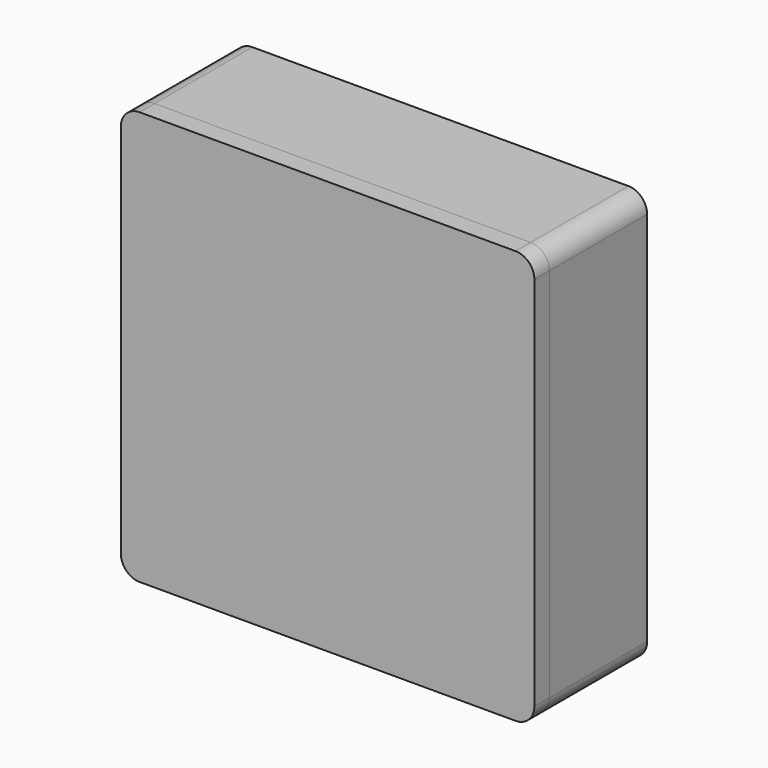
from build123d import *

# Parameters (mm, degrees)
F0_W     = 220
F0_H     = 220
F1_DEPTH = 65
F2_R     = 10
F3_T     = -2.5
F5_DEPTH = 10


with BuildPart() as f1:
    # F0 (on Front) → F1 (new body)
    with BuildSketch(Plane.XZ):
        Rectangle(F0_W, F0_H)
    extrude(amount=F1_DEPTH)

    # F2
    f2_edges = [f1.edges().sort_by_distance(p)[0] for p in [
        (110, -32.5, 110),
        (-110, -32.5, 110),
        (110, -32.5, -110),
        (-110, -32.5, -110),
    ]]
    fillet(f2_edges, radius=F2_R)

    # F3
    f3_openings = [f1.faces().sort_by_distance(p)[0] for p in [
        (0, -65, 0),
    ]]
    offset(amount=F3_T, openings=f3_openings)


with BuildPart() as f5:
    # F4 (on face) → F5 (new body)
    with BuildSketch(Plane.XZ.offset(65)):
        with BuildLine():
            ThreePointArc((110, 100), (107.071068, 107.071068), (100, 110))
            Line((100, 110), (-100, 110))
            ThreePointArc((-100, 110), (-107.071068, 107.071068), (-110, 100))
            Line((-110, 100), (-110, -100))
            ThreePointArc((-110, -100), (-107.071068, -107.071068), (-100, -110))
            Line((-100, -110), (100, -110))
            ThreePointArc((100, -110), (107.071068, -107.071068), (110, -100))
            Line((110, -100), (110, 100))
        make_face()
    extrude(amount=F5_DEPTH)


solid = Compound([f1.part, f5.part])
